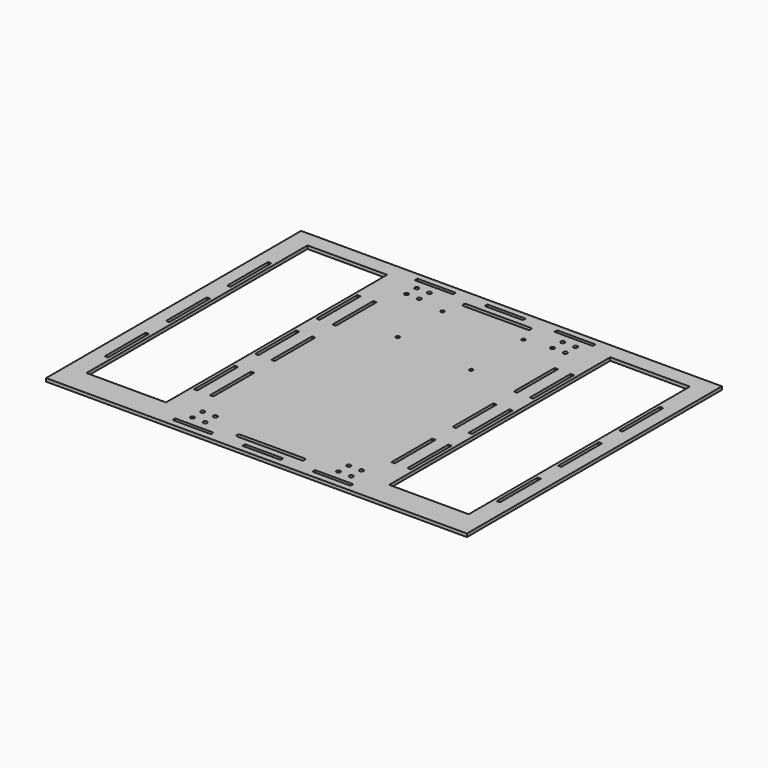
from build123d import *

# Parameters (mm, degrees)
F0_R     = 1.984375
F0_W     = 38.1
F0_H     = 3.302
F0_W_2   = 3.302
F0_H_2   = 50.8
F0_W_3   = 79.248
F0_H_3   = 275.232702
F0_R_2   = 1.75
F1_DEPTH = 3.175


with BuildPart() as f1:
    # F0 (on Top) → F1 (new body)
    with BuildSketch(Plane.XY):
        Polygon((-111.125, -158.75), (111.125, -158.75), (209.55, -158.75), (209.55, 158.75), (111.125, 158.75), (-111.125, 158.75), (-209.55, 158.75), (-209.55, -158.75), align=None)
        with Locations((-79.121, -139.573)):
            Circle(F0_R, mode=Mode.SUBTRACT)
        with Locations((-69.596, -150.749)):
            Rectangle(F0_W, F0_H, mode=Mode.SUBTRACT)
        with Locations((-66.421, -139.573)):
            Circle(F0_R, mode=Mode.SUBTRACT)
        with Locations((-79.121, -126.873)):
            Circle(F0_R, mode=Mode.SUBTRACT)
        with Locations((-66.421, -126.873)):
            Circle(F0_R, mode=Mode.SUBTRACT)
        with Locations((-195.199, -76.2)):
            Rectangle(F0_W_2, F0_H_2, mode=Mode.SUBTRACT)
        with Locations((-106.299, -76.2)):
            Rectangle(F0_W_2, F0_H_2, mode=Mode.SUBTRACT)
        with Locations((-90.297, -76.2)):
            Rectangle(F0_W_2, F0_H_2, mode=Mode.SUBTRACT)
        with Locations((0, -150.749)):
            Rectangle(F0_W, F0_H, mode=Mode.SUBTRACT)
        with BuildLine():
            ThreePointArc((-31.75, -142.748), (-33.734375, -140.763625), (-31.75, -138.77925))
            Line((-31.75, -138.77925), (0, -138.77925))
            Line((0, -138.77925), (31.75, -138.77925))
            ThreePointArc((31.75, -138.77925), (33.734375, -140.763625), (31.75, -142.748))
            Line((31.75, -142.748), (0, -142.748))
            Line((0, -142.748), (-31.75, -142.748))
        make_face(mode=Mode.SUBTRACT)
        with Locations((69.596, -150.749)):
            Rectangle(F0_W, F0_H, mode=Mode.SUBTRACT)
        with Locations((66.421, -139.573)):
            Circle(F0_R, mode=Mode.SUBTRACT)
        with Locations((79.121, -139.573)):
            Circle(F0_R, mode=Mode.SUBTRACT)
        with Locations((66.421, -126.873)):
            Circle(F0_R, mode=Mode.SUBTRACT)
        with Locations((79.121, -126.873)):
            Circle(F0_R, mode=Mode.SUBTRACT)
        with Locations((90.297, -76.2)):
            Rectangle(F0_W_2, F0_H_2, mode=Mode.SUBTRACT)
        with Locations((106.299, -76.2)):
            Rectangle(F0_W_2, F0_H_2, mode=Mode.SUBTRACT)
        with Locations((195.199, -76.2)):
            Rectangle(F0_W_2, F0_H_2, mode=Mode.SUBTRACT)
        with Locations((-195.199, 0)):
            Rectangle(F0_W_2, F0_H_2, mode=Mode.SUBTRACT)
        with Locations((-150.749, 5.131649)):
            Rectangle(F0_W_3, F0_H_3, mode=Mode.SUBTRACT)
        with Locations((-106.299, 0)):
            Rectangle(F0_W_2, F0_H_2, mode=Mode.SUBTRACT)
        with Locations((-195.199, 76.2)):
            Rectangle(F0_W_2, F0_H_2, mode=Mode.SUBTRACT)
        with Locations((-106.299, 76.2)):
            Rectangle(F0_W_2, F0_H_2, mode=Mode.SUBTRACT)
        with Locations((-90.297, 0)):
            Rectangle(F0_W_2, F0_H_2, mode=Mode.SUBTRACT)
        with Locations((-90.297, 76.2)):
            Rectangle(F0_W_2, F0_H_2, mode=Mode.SUBTRACT)
        with Locations((-39.037, 65.881)):
            Circle(F0_R_2, mode=Mode.SUBTRACT)
        with Locations((-79.121, 126.873)):
            Circle(F0_R, mode=Mode.SUBTRACT)
        with Locations((-66.421, 126.873)):
            Circle(F0_R, mode=Mode.SUBTRACT)
        with Locations((-79.121, 139.573)):
            Circle(F0_R, mode=Mode.SUBTRACT)
        with Locations((-66.421, 139.573)):
            Circle(F0_R, mode=Mode.SUBTRACT)
        with Locations((-69.596, 150.749)):
            Rectangle(F0_W, F0_H, mode=Mode.SUBTRACT)
        with Locations((-39.037, 121.615)):
            Circle(F0_R_2, mode=Mode.SUBTRACT)
        with Locations((90.297, 0)):
            Rectangle(F0_W_2, F0_H_2, mode=Mode.SUBTRACT)
        with Locations((39.921, 58.698)):
            Circle(F0_R_2, mode=Mode.SUBTRACT)
        with Locations((90.297, 76.2)):
            Rectangle(F0_W_2, F0_H_2, mode=Mode.SUBTRACT)
        with Locations((106.299, 0)):
            Rectangle(F0_W_2, F0_H_2, mode=Mode.SUBTRACT)
        with Locations((150.749, 5.131649)):
            Rectangle(F0_W_3, F0_H_3, mode=Mode.SUBTRACT)
        with Locations((195.199, 0)):
            Rectangle(F0_W_2, F0_H_2, mode=Mode.SUBTRACT)
        with Locations((106.299, 76.2)):
            Rectangle(F0_W_2, F0_H_2, mode=Mode.SUBTRACT)
        with Locations((195.199, 76.2)):
            Rectangle(F0_W_2, F0_H_2, mode=Mode.SUBTRACT)
        with Locations((39.921, 123.698)):
            Circle(F0_R_2, mode=Mode.SUBTRACT)
        with BuildLine():
            Line((-31.75, 142.748), (0, 142.748))
            Line((0, 142.748), (31.75, 142.748))
            ThreePointArc((31.75, 142.748), (33.734375, 140.763625), (31.75, 138.77925))
            Line((31.75, 138.77925), (0, 138.77925))
            Line((0, 138.77925), (-31.75, 138.77925))
            ThreePointArc((-31.75, 138.77925), (-33.734375, 140.763625), (-31.75, 142.748))
        make_face(mode=Mode.SUBTRACT)
        with Locations((0, 150.749)):
            Rectangle(F0_W, F0_H, mode=Mode.SUBTRACT)
        with Locations((66.421, 126.873)):
            Circle(F0_R, mode=Mode.SUBTRACT)
        with Locations((79.121, 126.873)):
            Circle(F0_R, mode=Mode.SUBTRACT)
        with Locations((66.421, 139.573)):
            Circle(F0_R, mode=Mode.SUBTRACT)
        with Locations((69.596, 150.749)):
            Rectangle(F0_W, F0_H, mode=Mode.SUBTRACT)
        with Locations((79.121, 139.573)):
            Circle(F0_R, mode=Mode.SUBTRACT)
    extrude(amount=F1_DEPTH)


solid = f1.part
